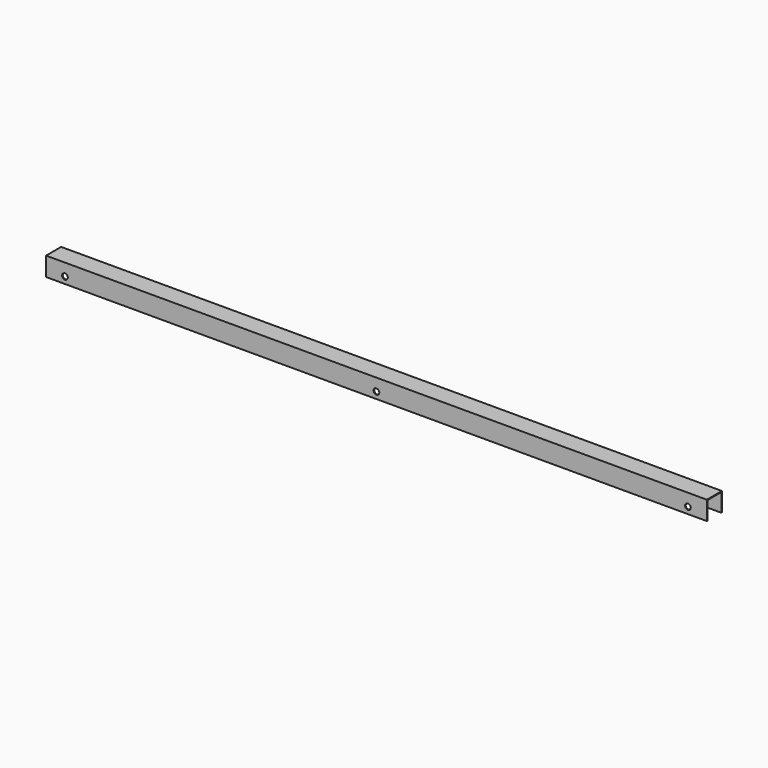
from build123d import *

# Parameters (mm, degrees)
F1_DEPTH = 3500
F2_R     = 15
F3_DEPTH = 4
F4_R     = 15
F5_DEPTH = 5


with BuildPart() as f1:
    # F0 (on Right) → F1 (new body)
    with BuildSketch(Plane.YZ):
        Polygon((-37.197296, 100), (-37.197296, 0), (-33.197296, 0), (-33.197296, 96), (58.802704, 96), (58.802704, 0), (62.802704, 0), (62.802704, 100), align=None)
    extrude(amount=F1_DEPTH)

    # F2 (on face) → F3 (cut)
    with BuildSketch(Plane(origin=(0, 62.802704, 0), x_dir=(-1, 0, 0), z_dir=(0, 1, 0))):
        with Locations((-3400, 35)):
            Circle(F2_R)
        with Locations((-1750, 35)):
            Circle(F2_R)
        with Locations((-100, 35)):
            Circle(F2_R)
    extrude(amount=-F3_DEPTH, mode=Mode.SUBTRACT)

    # F4 (on face) → F5 (cut)
    with BuildSketch(Plane.XZ.offset(37.197296)):
        with Locations((100, 35)):
            Circle(F4_R)
        with Locations((1750, 35)):
            Circle(F4_R)
        with Locations((3400, 35)):
            Circle(F4_R)
    extrude(amount=-F5_DEPTH, mode=Mode.SUBTRACT)


solid = f1.part
